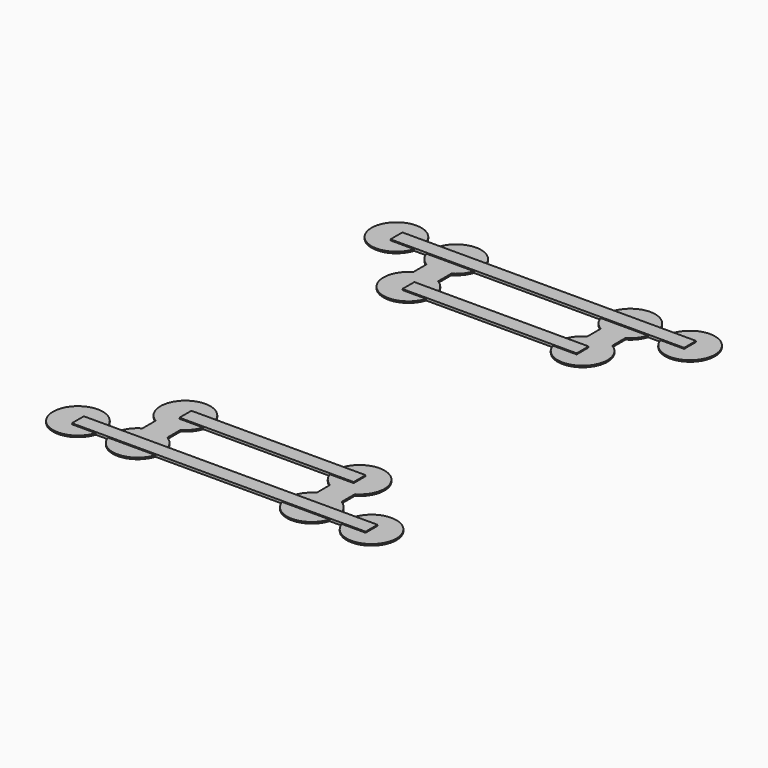
from build123d import *

# Parameters (mm, degrees)
CYLINDER018_R     = 10
CYLINDER018_DEPTH = 0.6
CYLINDER019_R     = 10
CYLINDER019_DEPTH = 0.6
CYLINDER020_R     = 10
CYLINDER020_DEPTH = 0.6
BOX015_W          = 70
BOX015_H          = 6
BOX015_DEPTH      = 1
BOX016_W          = 70
BOX016_H          = 6
BOX016_DEPTH      = 1
CYLINDER025_R     = 10
CYLINDER025_DEPTH = 0.6
CYLINDER026_R     = 10
CYLINDER026_DEPTH = 0.6
CYLINDER027_R     = 10
CYLINDER027_DEPTH = 0.6
CYLINDER028_R     = 10
CYLINDER028_DEPTH = 0.6
CYLINDER029_R     = 10
CYLINDER029_DEPTH = 0.6
CYLINDER030_R     = 10
CYLINDER030_DEPTH = 0.6
CYLINDER031_R     = 10
CYLINDER031_DEPTH = 0.6
CYLINDER032_R     = 10
CYLINDER032_DEPTH = 0.6
BOX019_W          = 118
BOX019_H          = 6
BOX019_DEPTH      = 1
BOX020_W          = 118
BOX020_H          = 6
BOX020_DEPTH      = 1
BOX021_W          = 10
BOX021_H          = 10
BOX021_DEPTH      = 0.6
BOX022_W          = 10
BOX022_H          = 10
BOX022_DEPTH      = 0.6
BOX023_W          = 10
BOX023_H          = 10
BOX023_DEPTH      = 0.6
BOX024_W          = 10
BOX024_H          = 10
BOX024_DEPTH      = 0.6
CYLINDER017_R     = 10
CYLINDER017_DEPTH = 0.6


with BuildPart() as cylinder018:
    # Cylinder018 → Cylinder018 (new body)
    with BuildSketch(Plane(origin=(64, 10, 5), x_dir=(1, 0, 0), z_dir=(0, 0, 1))):
        Circle(CYLINDER018_R)
    extrude(amount=CYLINDER018_DEPTH)


with BuildPart() as cylinder019:
    # Cylinder019 → Cylinder019 (new body)
    with BuildSketch(Plane(origin=(-54, 170, 5), x_dir=(1, 0, 0), z_dir=(0, 0, 1))):
        Circle(CYLINDER019_R)
    extrude(amount=CYLINDER019_DEPTH)


with BuildPart() as cylinder020:
    # Cylinder020 → Cylinder020 (new body)
    with BuildSketch(Plane(origin=(40, 146, 5), x_dir=(1, 0, 0), z_dir=(0, 0, 1))):
        Circle(CYLINDER020_R)
    extrude(amount=CYLINDER020_DEPTH)


with BuildPart() as cube015:
    # Box015 → Box015 (new body)
    with BuildSketch(Plane(origin=(-30, 31, 5), x_dir=(1, 0, 0), z_dir=(0, 0, 1))):
        with Locations((35, 3)):
            Rectangle(BOX015_W, BOX015_H)
    extrude(amount=BOX015_DEPTH)


with BuildPart() as cube016:
    # Box016 → Box016 (new body)
    with BuildSketch(Plane(origin=(-30, 143, 5), x_dir=(1, 0, 0), z_dir=(0, 0, 1))):
        with Locations((35, 3)):
            Rectangle(BOX016_W, BOX016_H)
    extrude(amount=BOX016_DEPTH)


with BuildPart() as cylinder025:
    # Cylinder025 → Cylinder025 (new body)
    with BuildSketch(Plane(origin=(40, 34, 5), x_dir=(1, 0, 0), z_dir=(0, 0, 1))):
        Circle(CYLINDER025_R)
    extrude(amount=CYLINDER025_DEPTH)


with BuildPart() as cylinder026:
    # Cylinder026 → Cylinder026 (new body)
    with BuildSketch(Plane(origin=(-30, 34, 5), x_dir=(1, 0, 0), z_dir=(0, 0, 1))):
        Circle(CYLINDER026_R)
    extrude(amount=CYLINDER026_DEPTH)


with BuildPart() as cylinder027:
    # Cylinder027 → Cylinder027 (new body)
    with BuildSketch(Plane(origin=(-30, 146, 5), x_dir=(1, 0, 0), z_dir=(0, 0, 1))):
        Circle(CYLINDER027_R)
    extrude(amount=CYLINDER027_DEPTH)


with BuildPart() as cylinder028:
    # Cylinder028 → Cylinder028 (new body)
    with BuildSketch(Plane(origin=(64, 170, 5), x_dir=(1, 0, 0), z_dir=(0, 0, 1))):
        Circle(CYLINDER028_R)
    extrude(amount=CYLINDER028_DEPTH)


with BuildPart() as cylinder029:
    # Cylinder029 → Cylinder029 (new body)
    with BuildSketch(Plane(origin=(40, 170, 5), x_dir=(1, 0, 0), z_dir=(0, 0, 1))):
        Circle(CYLINDER029_R)
    extrude(amount=CYLINDER029_DEPTH)


with BuildPart() as cylinder030:
    # Cylinder030 → Cylinder030 (new body)
    with BuildSketch(Plane(origin=(-30, 170, 5), x_dir=(1, 0, 0), z_dir=(0, 0, 1))):
        Circle(CYLINDER030_R)
    extrude(amount=CYLINDER030_DEPTH)


with BuildPart() as cylinder031:
    # Cylinder031 → Cylinder031 (new body)
    with BuildSketch(Plane(origin=(-30, 10, 5), x_dir=(1, 0, 0), z_dir=(0, 0, 1))):
        Circle(CYLINDER031_R)
    extrude(amount=CYLINDER031_DEPTH)


with BuildPart() as cylinder032:
    # Cylinder032 → Cylinder032 (new body)
    with BuildSketch(Plane(origin=(40, 10, 5), x_dir=(1, 0, 0), z_dir=(0, 0, 1))):
        Circle(CYLINDER032_R)
    extrude(amount=CYLINDER032_DEPTH)


with BuildPart() as cube019:
    # Box019 → Box019 (new body)
    with BuildSketch(Plane(origin=(-54, 7, 5), x_dir=(1, 0, 0), z_dir=(0, 0, 1))):
        with Locations((59, 3)):
            Rectangle(BOX019_W, BOX019_H)
    extrude(amount=BOX019_DEPTH)


with BuildPart() as cube020:
    # Box020 → Box020 (new body)
    with BuildSketch(Plane(origin=(-54, 167, 5), x_dir=(1, 0, 0), z_dir=(0, 0, 1))):
        with Locations((59, 3)):
            Rectangle(BOX020_W, BOX020_H)
    extrude(amount=BOX020_DEPTH)


with BuildPart() as cube021:
    # Box021 → Box021 (new body)
    with BuildSketch(Plane(origin=(-35, 17, 5), x_dir=(1, 0, 0), z_dir=(0, 0, 1))):
        with Locations((5, 5)):
            Rectangle(BOX021_W, BOX021_H)
    extrude(amount=BOX021_DEPTH)


with BuildPart() as cube022:
    # Box022 → Box022 (new body)
    with BuildSketch(Plane(origin=(35, 17, 5), x_dir=(1, 0, 0), z_dir=(0, 0, 1))):
        with Locations((5, 5)):
            Rectangle(BOX022_W, BOX022_H)
    extrude(amount=BOX022_DEPTH)


with BuildPart() as cube023:
    # Box023 → Box023 (new body)
    with BuildSketch(Plane(origin=(35, 153, 5), x_dir=(1, 0, 0), z_dir=(0, 0, 1))):
        with Locations((5, 5)):
            Rectangle(BOX023_W, BOX023_H)
    extrude(amount=BOX023_DEPTH)


with BuildPart() as cube024:
    # Box024 → Box024 (new body)
    with BuildSketch(Plane(origin=(-35, 153, 5), x_dir=(1, 0, 0), z_dir=(0, 0, 1))):
        with Locations((5, 5)):
            Rectangle(BOX024_W, BOX024_H)
    extrude(amount=BOX024_DEPTH)


with BuildPart() as fusion017:
    # Cylinder017 → Cylinder017 (new body)
    with BuildSketch(Plane(origin=(-54, 10, 5), x_dir=(1, 0, 0), z_dir=(0, 0, 1))):
        Circle(CYLINDER017_R)
    extrude(amount=CYLINDER017_DEPTH)

    # Fusion017: union Cylinder018, Cylinder019, Cylinder020, Cube015, Cube016, Cylinder025, Cylinder026, Cylinder027, Cylinder028, Cylinder029, Cylinder030, Cylinder031, Cylinder032, Cube019, Cube020, Cube021, Cube022, Cube023, Cube024
    add(cylinder018.part)
    add(cylinder019.part)
    add(cylinder020.part)
    add(cube015.part)
    add(cube016.part)
    add(cylinder025.part)
    add(cylinder026.part)
    add(cylinder027.part)
    add(cylinder028.part)
    add(cylinder029.part)
    add(cylinder030.part)
    add(cylinder031.part)
    add(cylinder032.part)
    add(cube019.part)
    add(cube020.part)
    add(cube021.part)
    add(cube022.part)
    add(cube023.part)
    add(cube024.part)


solid = fusion017.part
